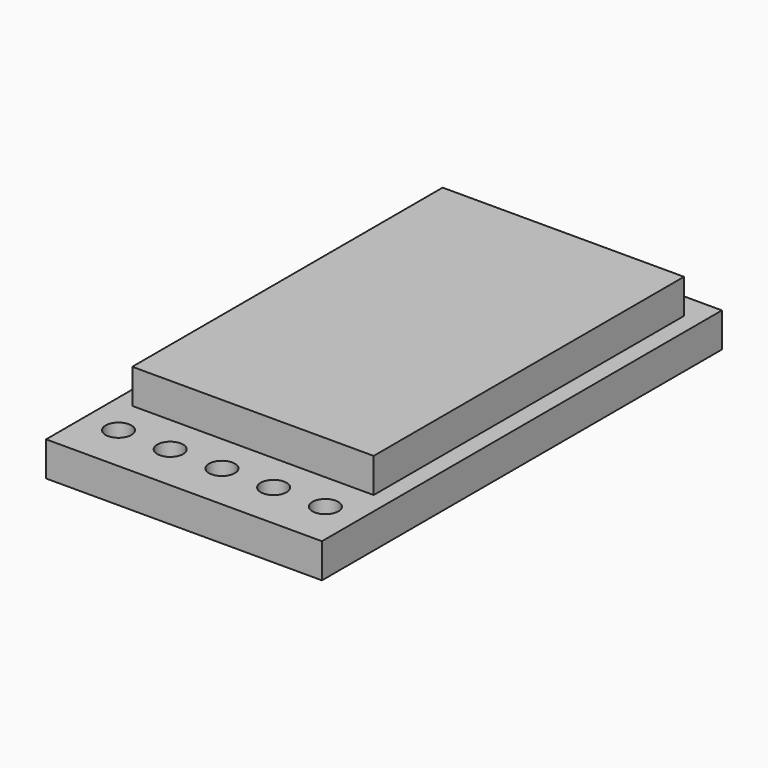
from build123d import *

# Parameters (mm, degrees)
F0_W     = 16
F0_H     = 29
F0_R     = 0.75
F0_W_2   = 14
F0_H_2   = 22.5
F1_DEPTH = 2
F2_DEPTH = 4


with BuildPart() as f1:
    # F0 (on Top) → F1 (new body)
    with BuildSketch(Plane.XY):
        Rectangle(F0_W, F0_H)
        with Locations((-6, -11.75)):
            Circle(F0_R, mode=Mode.SUBTRACT)
        with Locations((-3, -11.75)):
            Circle(F0_R, mode=Mode.SUBTRACT)
        with Locations((0, -11.75)):
            Circle(F0_R, mode=Mode.SUBTRACT)
        with Locations((3, -11.75)):
            Circle(F0_R, mode=Mode.SUBTRACT)
        with Locations((6, -11.75)):
            Circle(F0_R, mode=Mode.SUBTRACT)
        with Locations((0, 1.75)):
            Rectangle(F0_W_2, F0_H_2, mode=Mode.SUBTRACT)
    extrude(amount=F1_DEPTH)

    # F0 (on Top) → F2 (join)
    with BuildSketch(Plane.XY):
        with Locations((0, 1.75)):
            Rectangle(F0_W_2, F0_H_2)
    extrude(amount=F2_DEPTH)


solid = f1.part
